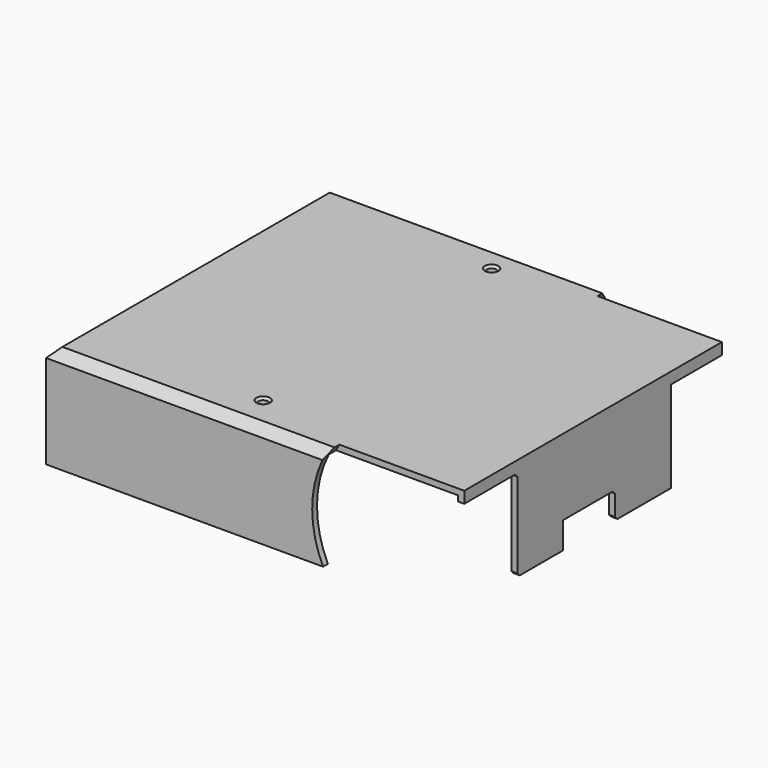
from build123d import *

# Parameters (mm, degrees)
SKETCH008_W      = 134.431716
SKETCH008_H      = 116.608648
PAD008_DEPTH     = 34
THICKNESS_T      = -2
HOLE_D           = 3
HOLE_DEPTH       = 25
HOLE_CSINK_D     = 4.5
HOLE_CSINK_ANGLE = 90
HOLE_TIPS_R      = 1.5
SKETCH011_W      = 22.22
SKETCH011_H      = 30.19
SKETCH011_W_2    = 21.462421
SKETCH011_H_2    = 8.812902
POCKET_DEPTH     = 5
SKETCH012_R      = 36
POCKET001_DEPTH  = 5
SKETCH013_R      = 36
POCKET002_DEPTH  = 5
CHAMFER_SIZE     = 3
SKETCH015_W      = 11.6
SKETCH015_H      = 20.6
POCKET003_DEPTH  = 5
CHAMFER001_SIZE  = 1


with BuildPart() as part:
    # Sketch008 → Pad008 (new body)
    with BuildSketch(Plane.XY):
        Rectangle(SKETCH008_W, SKETCH008_H)
    extrude(amount=PAD008_DEPTH)

    # Thickness
    thickness_openings = [part.faces().sort_by_distance(p)[0] for p in [
        (0, 0, 0),
    ]]
    offset(amount=THICKNESS_T, openings=thickness_openings)

    # Hole
    with Locations(Plane.XY.offset(34)):
        with Locations((-5, 48.267742), (-5, -46.232258)):
            CounterSinkHole(HOLE_D / 2, HOLE_CSINK_D / 2, depth=HOLE_DEPTH, counter_sink_angle=HOLE_CSINK_ANGLE)

    # Hole tips → Hole tip 1 section 0
    with BuildSketch(Plane.XY.offset(9), mode=Mode.PRIVATE) as hole_tip_1_s0:
        with Locations((-5, 48.267742)):
            Circle(HOLE_TIPS_R)
    loft([hole_tip_1_s0.sketch, Vertex(-5, 48.267742, 8.098709)], mode=Mode.SUBTRACT)

    # Hole tips → Hole tip 2 section 0
    with BuildSketch(Plane.XY.offset(9), mode=Mode.PRIVATE) as hole_tip_2_s0:
        with Locations((-5, -46.232258)):
            Circle(HOLE_TIPS_R)
    loft([hole_tip_2_s0.sketch, Vertex(-5, -46.232258, 8.098709)], mode=Mode.SUBTRACT)

    # Sketch011 (on Face3 of Hole) → Pocket (cut)
    with BuildSketch(Plane.YZ.offset(67.215858)):
        with Locations((43.25677, 15.095)):
            Rectangle(SKETCH011_W, SKETCH011_H)
        with Locations((-42.456113, 15.095)):
            Rectangle(SKETCH011_W, SKETCH011_H)
        with Locations((-1.636131, 4.406451)):
            Rectangle(SKETCH011_W_2, SKETCH011_H_2)
    extrude(amount=-POCKET_DEPTH, mode=Mode.SUBTRACT)

    # Sketch012 (on Face1 of Pocket) → Pocket001 (cut)
    with BuildSketch(Plane(origin=(0, 58.304324, 0), x_dir=(-1, 0, 0), z_dir=(0, 1, 0))):
        with Locations((-57.121563, 15.810025)):
            Circle(SKETCH012_R)
    extrude(amount=-POCKET001_DEPTH, mode=Mode.SUBTRACT)

    # Sketch013 (on Face13 of Pocket001) → Pocket002 (cut)
    with BuildSketch(Plane.XZ.offset(58.304324)):
        with Locations((56.871254, 15.696718)):
            Circle(SKETCH013_R)
    extrude(amount=-POCKET002_DEPTH, mode=Mode.SUBTRACT)

    # Chamfer
    chamfer_edges = [part.edges().sort_by_distance(p)[0] for p in [
        (-20.67222, -58.304324, 34),
        (-67.215858, 0, 34),
        (-20.580376, 58.304324, 34),
    ]]
    chamfer(chamfer_edges, length=CHAMFER_SIZE)

    # Sketch015 (on Face1 of Chamfer) → Pocket003 (cut)
    with BuildSketch(Plane(origin=(0, 58.304324, 0), x_dir=(-1, 0, 0), z_dir=(0, 1, 0))):
        with Locations((5.414926, 17.771388)):
            Rectangle(SKETCH015_W, SKETCH015_H)
    extrude(amount=-POCKET003_DEPTH, mode=Mode.SUBTRACT)

    # Chamfer001
    chamfer001_edges = [part.edges().sort_by_distance(p)[0] for p in [
        (66.215858, -31.346113, 0),
        (66.215858, -31.346113, 30.19),
        (66.215858, 9.09508, 8.812902),
        (66.215858, 9.09508, 0),
    ]]
    chamfer(chamfer001_edges, length=CHAMFER001_SIZE)


with BuildPart() as part_1:
    # Body001 placement: moved
    add(part.part.moved(Location((0, 0, -5))))


solid = part_1.part
